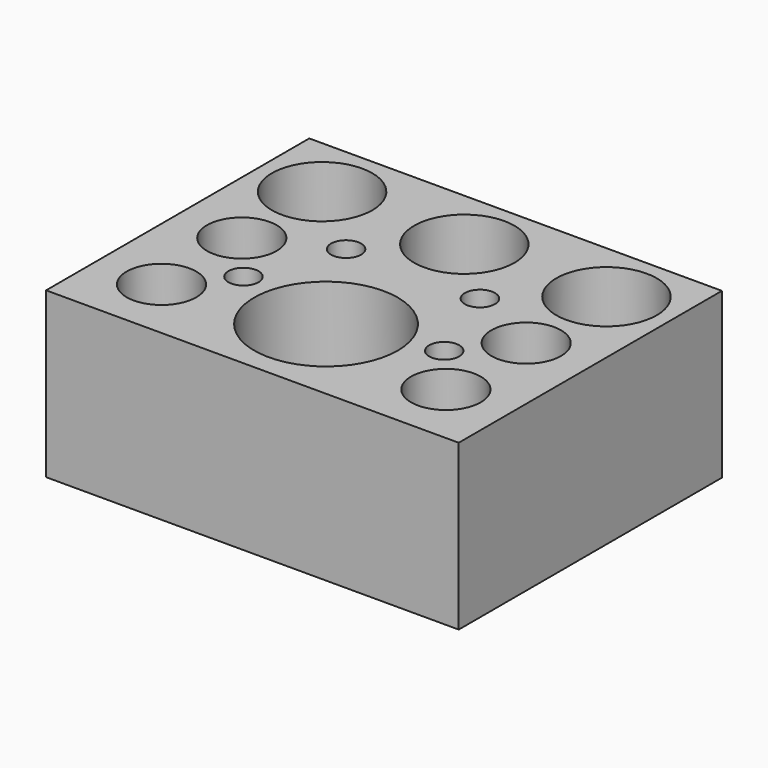
from build123d import *

# Parameters (mm, degrees)
F0_W     = 148
F0_H     = 118
F1_DEPTH = 59
F2_R     = 25.75
F3_DEPTH = 50
F2_R_2   = 18
F4_DEPTH = 40
F2_R_3   = 12.5
F5_DEPTH = 38.5
F2_R_4   = 5.4
F6_DEPTH = 38.3


with BuildPart() as f1:
    # F0 (on Top) → F1 (new body)
    with BuildSketch(Plane.XY):
        Rectangle(F0_W, F0_H)
    extrude(amount=F1_DEPTH)

    # F2 (on face) → F3 (cut)
    with BuildSketch(Plane.XY.offset(59)):
        with Locations((0, -26)):
            Circle(F2_R)
    extrude(amount=-F3_DEPTH, mode=Mode.SUBTRACT)

    # F2 (on face) → F4 (cut)
    with BuildSketch(Plane.XY.offset(59)):
        with Locations((-51, 36)):
            Circle(F2_R_2)
        with Locations((0, 36)):
            Circle(F2_R_2)
        with Locations((51, 36)):
            Circle(F2_R_2)
    extrude(amount=-F4_DEPTH, mode=Mode.SUBTRACT)

    # F2 (on face) → F5 (cut)
    with BuildSketch(Plane.XY.offset(59)):
        with Locations((-51, 0)):
            Circle(F2_R_3)
        with Locations((-51, -36)):
            Circle(F2_R_3)
        with Locations((51, 0)):
            Circle(F2_R_3)
        with Locations((51, -36)):
            Circle(F2_R_3)
    extrude(amount=-F5_DEPTH, mode=Mode.SUBTRACT)

    # F2 (on face) → F6 (cut)
    with BuildSketch(Plane.XY.offset(59)):
        with Locations((-24, 13)):
            Circle(F2_R_4)
        with Locations((-36, -18)):
            Circle(F2_R_4)
        with Locations((24, 13)):
            Circle(F2_R_4)
        with Locations((36, -18)):
            Circle(F2_R_4)
    extrude(amount=-F6_DEPTH, mode=Mode.SUBTRACT)


solid = f1.part
